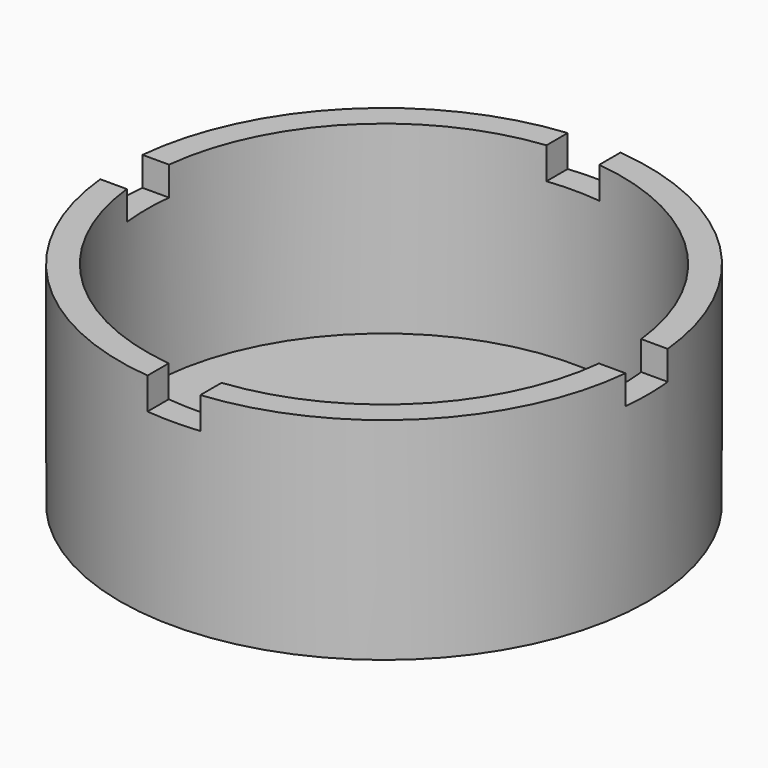
from build123d import *

# Parameters (mm, degrees)
F0_R      = 50
F1_DEPTH  = 40
F2_R      = 45
F3_DEPTH  = 35
F4_W      = 10
F4_H      = 6
F5_DEPTH  = 50
F6_W      = 10
F6_H      = 6
F7_DEPTH  = 50
F8_W      = 10
F8_H      = 5.49967
F9_DEPTH  = 50
F10_W     = 10
F10_H     = 5.49967
F11_DEPTH = 50


with BuildPart() as f1:
    # F0 (on Top) → F1 (new body)
    with BuildSketch(Plane.XY):
        Circle(F0_R)
    extrude(amount=F1_DEPTH)

    # F2 (on face) → F3 (cut)
    with BuildSketch(Plane.XY.offset(40)):
        Circle(F2_R)
    extrude(amount=-F3_DEPTH, mode=Mode.SUBTRACT)

    # F4 (on Front) → F5 (cut)
    with BuildSketch(Plane.XZ):
        with Locations((0, 37)):
            Rectangle(F4_W, F4_H)
    extrude(amount=-F5_DEPTH, mode=Mode.SUBTRACT)

    # F6 (on Front) → F7 (cut)
    with BuildSketch(Plane.XZ):
        with Locations((0, 37)):
            Rectangle(F6_W, F6_H)
    extrude(amount=F7_DEPTH, mode=Mode.SUBTRACT)

    # F8 (on Right) → F9 (cut)
    with BuildSketch(Plane.YZ):
        with Locations((0, 37.250165)):
            Rectangle(F8_W, F8_H)
    extrude(amount=-F9_DEPTH, mode=Mode.SUBTRACT)

    # F10 (on Right) → F11 (cut)
    with BuildSketch(Plane.YZ):
        with Locations((0, 37.250165)):
            Rectangle(F10_W, F10_H)
    extrude(amount=F11_DEPTH, mode=Mode.SUBTRACT)


solid = f1.part
